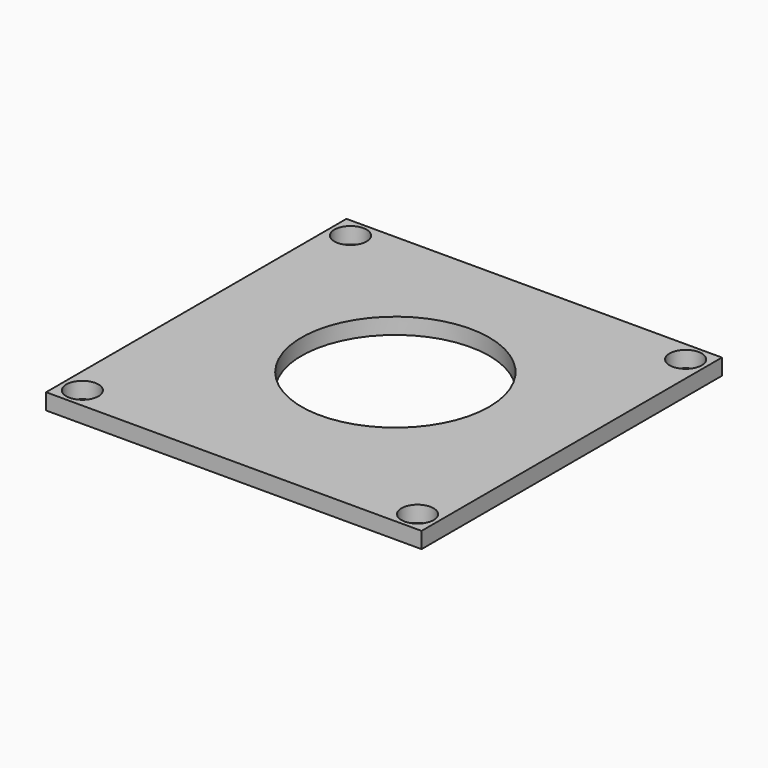
from build123d import *

# Parameters (mm, degrees)
F0_W     = 70.000038
F0_H     = 70.000037
F0_R     = 2.9972
F0_R_2   = 2.999994
F0_R_3   = 17.500009
F1_DEPTH = 3.000002


with BuildPart() as f1:
    # F0 (on Top) → F1 (new body)
    with BuildSketch(Plane.XY):
        with Locations((-0.759288, -1.704548)):
            Rectangle(F0_W, F0_H)
        with Locations((-32.000107, -32.945367)):
            Circle(F0_R, mode=Mode.SUBTRACT)
        with Locations((30.481531, -32.945367)):
            Circle(F0_R, mode=Mode.SUBTRACT)
        with Locations((-32.009307, 29.54643)):
            Circle(F0_R_2, mode=Mode.SUBTRACT)
        Circle(F0_R_3, mode=Mode.SUBTRACT)
        with Locations((30.481531, 29.54643)):
            Circle(F0_R_2, mode=Mode.SUBTRACT)
    extrude(amount=F1_DEPTH)


solid = f1.part
